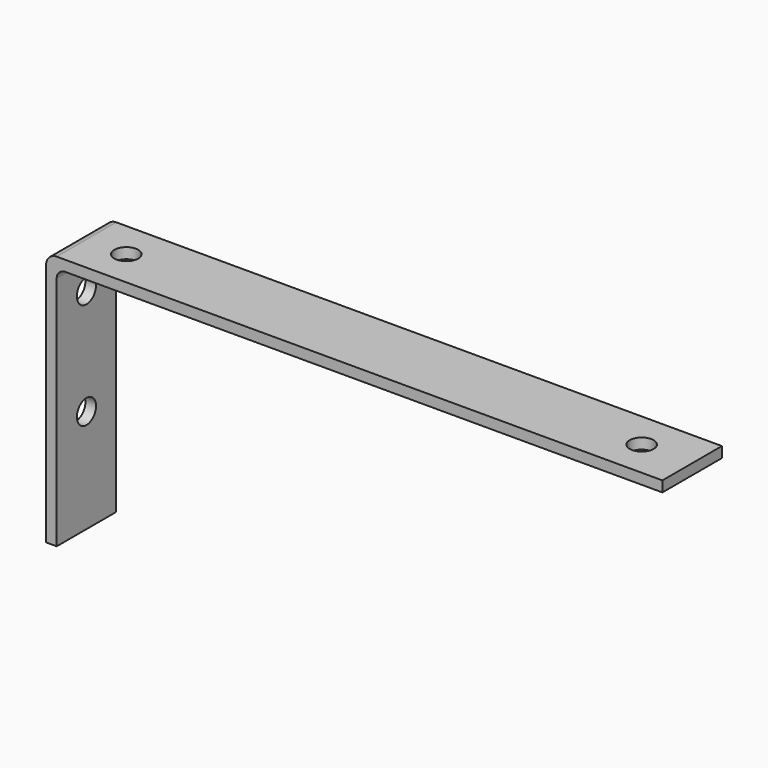
from build123d import *

# Parameters (mm, degrees)
F1_DEPTH = 22.225
F2_R     = 5.08
F3_R     = 6.35
F4_R     = 7.14375
F5_DEPTH = 152.401
F6_R     = 7.14375
F7_DEPTH = 76.301927


with BuildPart() as f1:
    # F0 (on Front) → F1 (new body, symmetric)
    with BuildSketch(Plane.XZ):
        Polygon((-76.300927, 152.4), (-76.300927, 0), (-69.950927, 0), (-69.950927, 146.05), (291.999073, 146.05), (291.999073, 152.4), align=None)
    extrude(amount=F1_DEPTH, both=True)

    # F2
    f2_edges = [f1.edges().sort_by_distance(p)[0] for p in [
        (-69.950927, 0, 146.05),
    ]]
    fillet(f2_edges, radius=F2_R)

    # F3
    f3_edges = [f1.edges().sort_by_distance(p)[0] for p in [
        (-76.300927, 0, 152.4),
    ]]
    fillet(f3_edges, radius=F3_R)

    # F4 (on Top) → F5 (cut, through all)
    with BuildSketch(Plane.XY):
        with Locations((261.836573, 0)):
            Circle(F4_R)
        with Locations((-46.138427, 0)):
            Circle(F4_R)
    extrude(amount=F5_DEPTH, mode=Mode.SUBTRACT)

    # F6 (on Right) → F7 (cut, through all)
    with BuildSketch(Plane.YZ):
        with Locations((0, 125.4125)):
            Circle(F6_R)
        with Locations((0, 61.9125)):
            Circle(F6_R)
    extrude(amount=-F7_DEPTH, mode=Mode.SUBTRACT)


solid = f1.part
